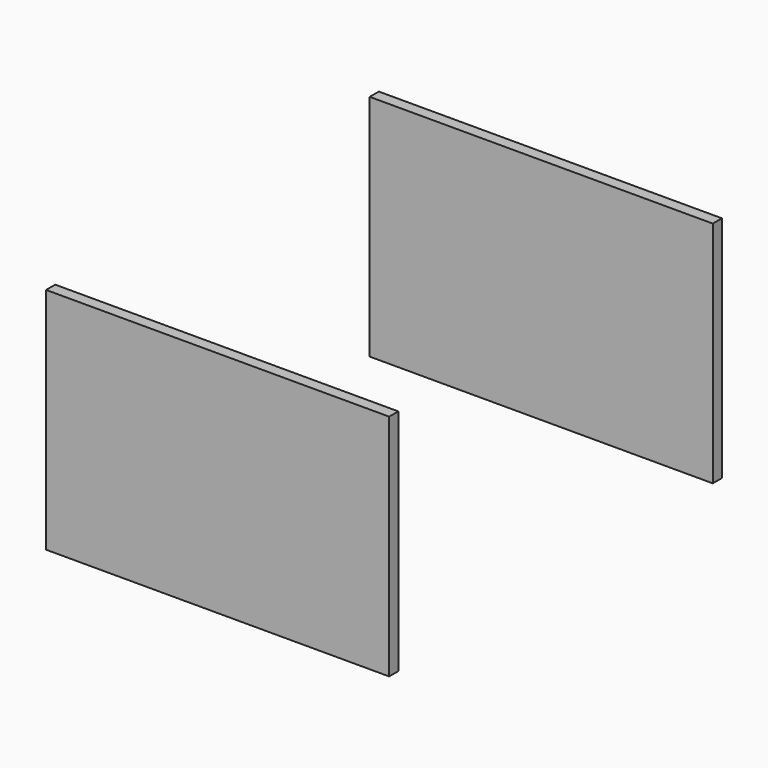
from build123d import *

# Parameters (mm, degrees)
F0_W     = 76.2
F0_H     = 50.8
F1_DEPTH = 2.54


with BuildPart() as f1:
    # F0 (on Front) → F1 (new body)
    with BuildSketch(Plane.XZ):
        with Locations((-2.309566, 1.714659)):
            Rectangle(F0_W, F0_H)
    extrude(amount=F1_DEPTH)


with BuildPart() as f2_1:
    # F2: copy of F1
    add(f1.part.moved(Location((48.514, 29.21, 41.656))))


solid = Compound([f1.part, f2_1.part])
